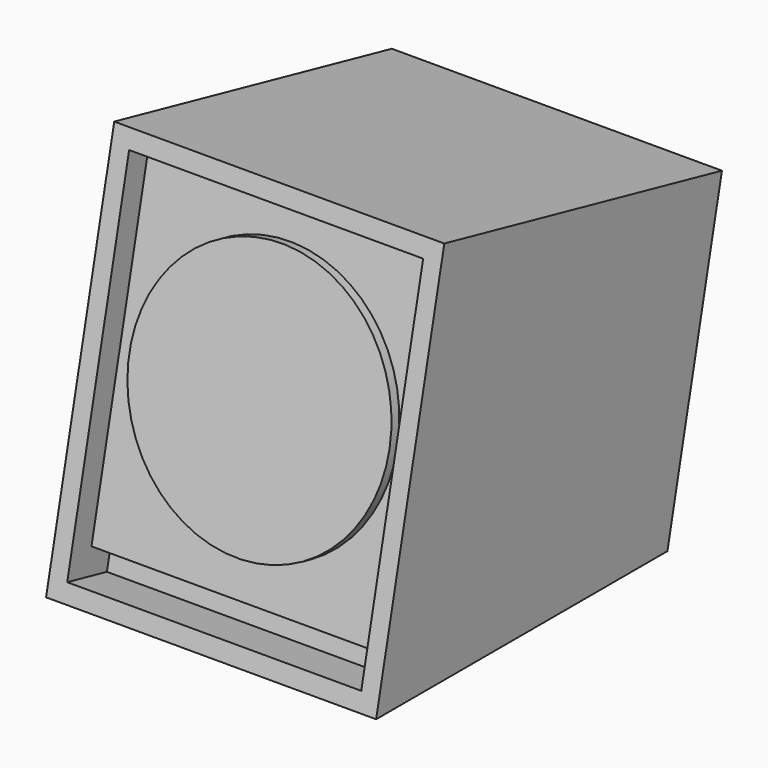
from build123d import *

# Parameters (mm, degrees)
F1_DEPTH = 330.2
F2_W     = 294.132
F2_H     = 357.632
F3_DEPTH = 25.4
F4_R     = 130.175
F5_DEPTH = 10.16
F6_W     = 294.132
F6_H     = 25.4
F7_DEPTH = 25.4


with BuildPart() as f1:
    # F0 (on Right) → F1 (new body)
    with BuildSketch(Plane.YZ):
        Polygon((85.2122760074, 384.3677380031), (0, 0), (364.2337952902, 0), (432.3831361393, 307.4018112867), align=None)
    extrude(amount=F1_DEPTH)

    # F2 (on face) → F3 (cut)
    with BuildSketch(Plane(origin=(0, 0, 0), x_dir=(1, 0, 0), z_dir=(0, -0.9762960071, 0.2164396139))):
        with Locations((165.1, 196.85)):
            Rectangle(F2_W, F2_H)
    extrude(amount=-F3_DEPTH, mode=Mode.SUBTRACT)

    # F4 (on face) → F5 (join)
    with BuildSketch(Plane(origin=(0, 24.7979185808, -5.497566194), x_dir=(1, 0, 0), z_dir=(0, -0.9762960071, 0.2164396139))):
        with Locations((165.1, 210.566)):
            Circle(F4_R)
    extrude(amount=F5_DEPTH)

    # F6 (on face) → F7 (cut)
    with BuildSketch(Plane(origin=(0, 24.7979185808, -5.497566194), x_dir=(1, 0, 0), z_dir=(0, -0.9762960071, 0.2164396139))):
        with Locations((165.1, 30.734)):
            Rectangle(F6_W, F6_H)
    extrude(amount=-F7_DEPTH, mode=Mode.SUBTRACT)


solid = f1.part
